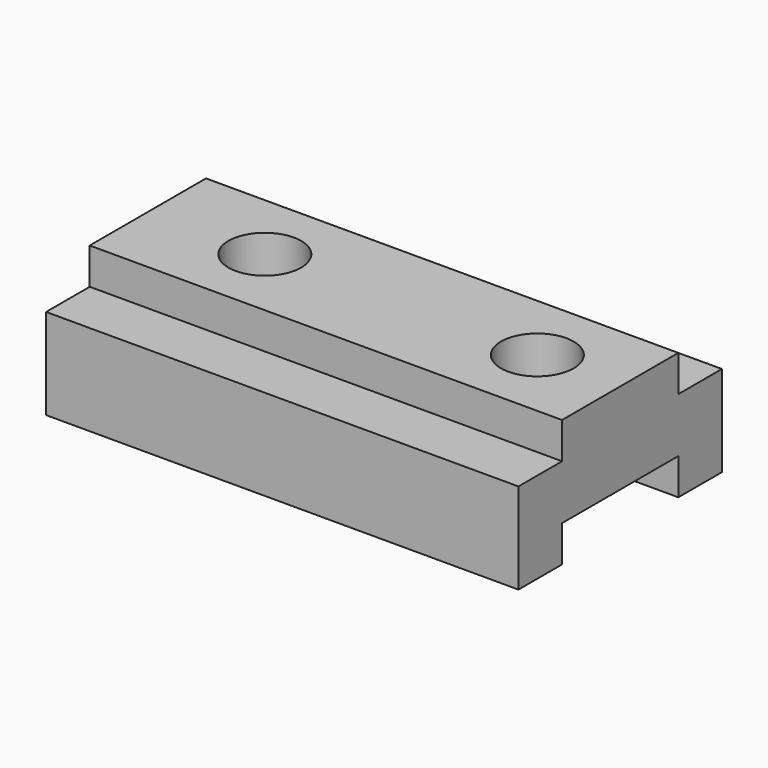
from build123d import *

# Parameters (mm, degrees)
F1_DEPTH = 165.1
F3_R     = 12.7
F4_DEPTH = 101.6


with BuildPart() as f1:
    # F0 (on Right) → F1 (new body)
    with BuildSketch(Plane.YZ):
        Polygon((0, 31.75), (0, 0), (19.05, 0), (19.05, 12.7), (69.85, 12.7), (69.85, 0), (88.9, 0), (88.9, 31.75), (69.85, 31.75), (69.85, 44.45), (19.05, 44.45), (19.05, 31.75), align=None)
    extrude(amount=-F1_DEPTH)

    # F3 (on face) → F4 (cut)
    with BuildSketch(Plane.XY.offset(44.45)):
        with Locations((-29.292527, 44.868249)):
            Circle(F3_R)
        with Locations((-124.542527, 44.868249)):
            Circle(F3_R)
    extrude(amount=-F4_DEPTH, mode=Mode.SUBTRACT)


solid = f1.part
